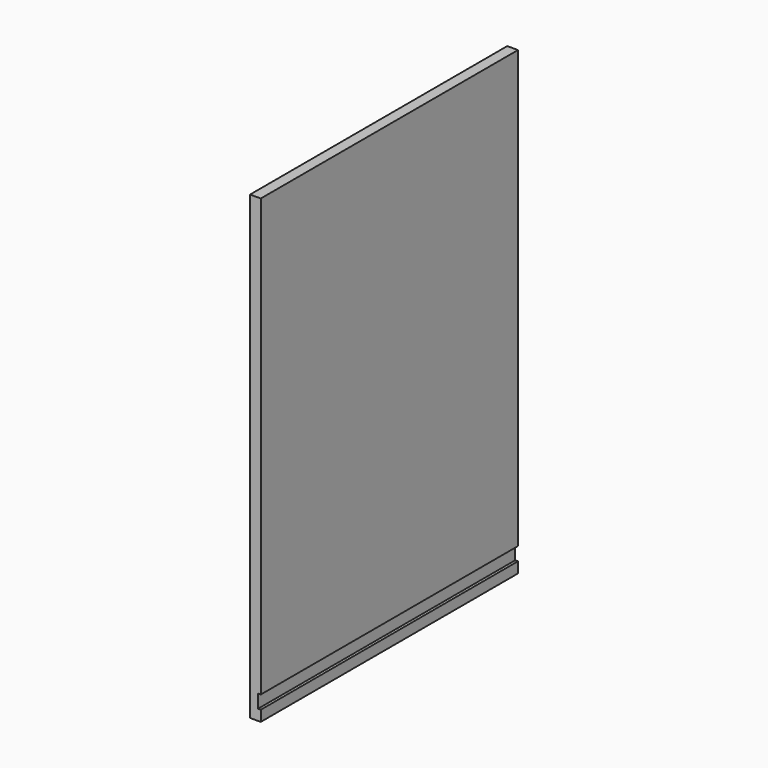
from build123d import *

# Parameters (mm, degrees)
F0_W     = 381
F0_H     = 546.1
F1_DEPTH = 12.7
F2_W     = 3.2663933605
F2_H     = 15.875
F3_DEPTH = 424.434


with BuildPart() as f1:
    # F0 (on Right) → F1 (new body)
    with BuildSketch(Plane.YZ):
        with Locations((-3.7253e-06, 57.7932692332)):
            Rectangle(F0_W, F0_H)
    extrude(amount=F1_DEPTH)

    # F2 (on face) → F3 (cut)
    with BuildSketch(Plane.XZ.offset(190.5000037253)):
        with Locations((11.0668033198, -194.6192307668)):
            Rectangle(F2_W, F2_H)
    extrude(amount=-F3_DEPTH, mode=Mode.SUBTRACT)


solid = f1.part
